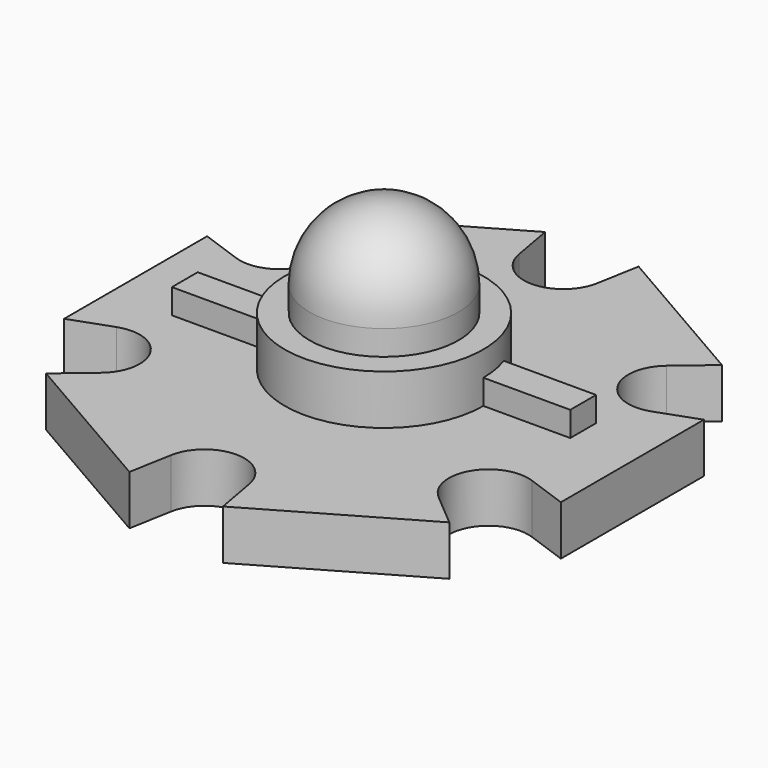
from build123d import *

# Parameters (mm, degrees)
F1_DEPTH = 2
F5_DEPTH = 1


with BuildPart() as f1:
    # F0 (on Top) → F1 (new body)
    with BuildSketch(Plane.XY):
        Polygon((-6.7911229225, 5.7391721177), (0, 0), (-1.5747073965, 8.7508710698), (-1.8823085464, 10.4602540378), (-8.1176914536, 6.8602540378), align=None)
        with BuildLine():
            Line((-1.5747073965, 8.7508710698), (0, 0))
            Line((0, 0), (1.5747074179, 8.7508711884))
            ThreePointArc((1.5747074179, 8.7508711884), (6.02e-08, 7.4342376439), (-1.5747073965, 8.7508710698))
        make_face()
        Polygon((1.5747074179, 8.7508711884), (0, 0), (6.7911228899, 5.7391720902), (8.1176914536, 6.8602540378), (1.8823085464, 10.4602540378), align=None)
        with BuildLine():
            Line((6.7911228899, 5.7391720902), (0, 0))
            Line((0, 0), (8.3658305386, 3.0116989939))
            ThreePointArc((8.3658305386, 3.0116989939), (6.4382387283, 3.7171186992), (6.7911228899, 5.7391720902))
        make_face()
        Polygon((8.3658305386, 3.0116989939), (0, 0), (8.3658304092, -3.0116989473), (10, -3.6), (10, 3.6), align=None)
        with BuildLine():
            Line((8.3658304092, -3.0116989473), (0, 0))
            Line((0, 0), (6.7911229101, -5.7391721072))
            ThreePointArc((6.7911229101, -5.7391721072), (6.4382386873, -3.7171187701), (8.3658304092, -3.0116989473))
        make_face()
        Polygon((6.7911229101, -5.7391721072), (0, 0), (1.574707395, -8.7508710612), (1.8823085464, -10.4602540378), (8.1176914536, -6.8602540378), align=None)
        with BuildLine():
            Line((1.574707395, -8.7508710612), (0, 0))
            Line((0, 0), (-1.5747073992, -8.7508710849))
            ThreePointArc((-1.5747073992, -8.7508710849), (-1.21e-08, -7.4342376439), (1.574707395, -8.7508710612))
        make_face()
        Polygon((-1.5747073992, -8.7508710849), (0, 0), (-6.791122959, -5.7391721485), (-8.1176914536, -6.8602540378), (-1.8823085464, -10.4602540378), align=None)
        with BuildLine():
            Line((0, 0), (-8.3658303156, -3.0116989136))
            ThreePointArc((-8.3658303156, -3.0116989136), (-6.9038580047, -3.2080883373), (-6.2238793035, -4.517118822))
            ThreePointArc((-6.2238793035, -4.517118822), (-6.3726022536, -5.1907618464), (-6.791122959, -5.7391721485))
            Line((-6.791122959, -5.7391721485), (0, 0))
        make_face()
        Polygon((-8.3658305462, 3.0116989966), (-10, 3.6), (-10, -3.6), (-8.3658303156, -3.0116989136), (0, 0), align=None)
        with BuildLine():
            ThreePointArc((-6.2238793035, 4.517118822), (-6.9038581049, 3.2080882668), (-8.3658305462, 3.0116989966))
            Line((-8.3658305462, 3.0116989966), (0, 0))
            Line((0, 0), (-6.7911229225, 5.7391721177))
            ThreePointArc((-6.7911229225, 5.7391721177), (-6.3726022435, 5.1907618248), (-6.2238793035, 4.517118822))
        make_face()
    extrude(amount=-F1_DEPTH)

    # F2 (on Front) → F3 (revolve)
    with BuildSketch(Plane.XZ):
        with BuildLine():
            Line((-4, 0), (0, 0))
            Line((0, 0), (0, 6))
            ThreePointArc((0, 6), (-2.1213203436, 5.1213203436), (-3, 3))
            Line((-3, 3), (-3, 2))
            Line((-3, 2), (-4, 2))
            Line((-4, 2), (-4, 0))
        make_face()
    revolve(axis=Axis((0, 0, 3), (0, 0, -1)))

    # F4 (on face) → F5 (join)
    with BuildSketch(Plane.XY):
        with BuildLine():
            Line((-3.4071028195, -1.3), (-3.4071028195, 0))
            Line((-3.4071028195, 0), (-4, 0))
            ThreePointArc((-4, 0), (-3.9453405592, -0.6590052141), (-3.7828560639, -1.3))
            Line((-3.7828560639, -1.3), (-3.4071028195, -1.3))
        make_face()
        with BuildLine():
            ThreePointArc((-3.7828560639, -1.3), (-3.9453405592, -0.6590052141), (-4, 0))
            Line((-4, 0), (-7.5, 0))
            Line((-7.5, 0), (-7.5, -1.3))
            Line((-7.5, -1.3), (-3.7828560639, -1.3))
        make_face()
        with BuildLine():
            ThreePointArc((4, 0), (3.9453405592, 0.6590052141), (3.7828560639, 1.3))
            Line((3.7828560639, 1.3), (3.4071028195, 1.3))
            Line((3.4071028195, 1.3), (3.4071028195, 0))
            Line((3.4071028195, 0), (4, 0))
        make_face()
        with BuildLine():
            Line((7.5, 1.3), (3.7828560639, 1.3))
            ThreePointArc((3.7828560639, 1.3), (3.9453405592, 0.6590052141), (4, 0))
            Line((4, 0), (7.5, 0))
            Line((7.5, 0), (7.5, 1.3))
        make_face()
    extrude(amount=F5_DEPTH)


solid = f1.part
